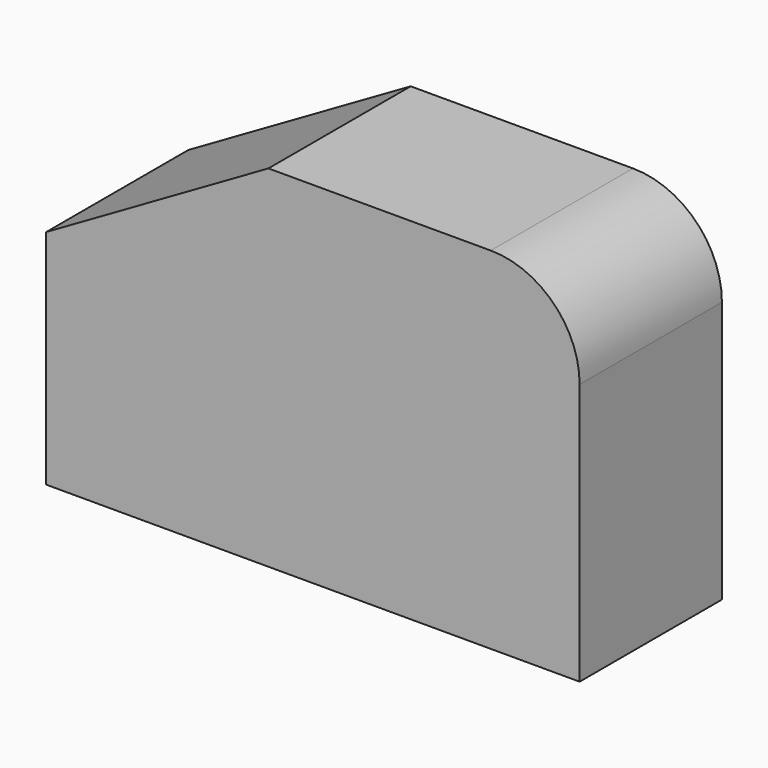
from build123d import *

# Parameters (mm, degrees)
PAD_DEPTH = 40


with BuildPart() as part:
    # Sketch → Pad (new body)
    with BuildSketch(Plane.XZ):
        with BuildLine():
            Line((0, 0), (120, 0))
            Line((120, 0), (120, 58.867513))
            ThreePointArc((120, 58.867513), (114.142136, 73.009649), (100, 78.867513))
            Line((50, 78.867513), (100, 78.867513))
            Line((0, 50), (50, 78.867513))
            Line((0, 0), (0, 50))
        make_face()
    extrude(amount=-PAD_DEPTH)


solid = part.part
